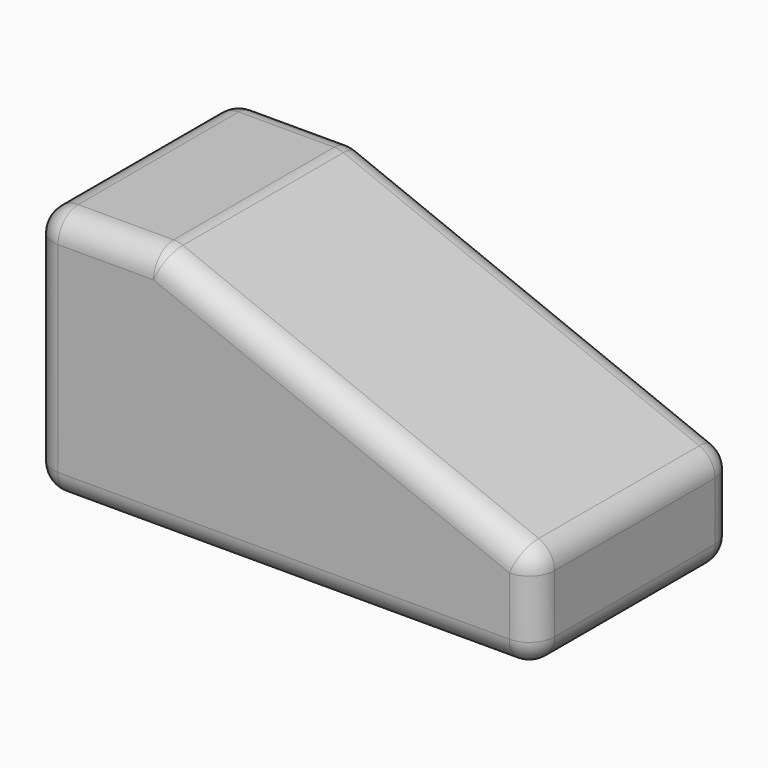
from build123d import *

# Parameters (mm, degrees)
F1_DEPTH = 50
F2_R     = 5


with BuildPart() as f1:
    # F0 (on Front) → F1 (new body)
    with BuildSketch(Plane.XZ):
        Polygon((0, 50), (0, 0), (100, 0), (100, 20), (25, 50), align=None)
    extrude(amount=F1_DEPTH)

    # F2
    f2_edges = [f1.edges().sort_by_distance(p)[0] for p in [
        (100, -25, 20),
        (25, -25, 50),
        (62.5, 0, 35),
        (62.5, -50, 35),
        (0, -25, 50),
        (12.5, 0, 50),
        (12.5, -50, 50),
        (100, -25, 0),
        (100, 0, 10),
        (100, -50, 10),
        (0, 0, 25),
        (50, 0, 0),
        (0, -50, 25),
        (50, -50, 0),
        (0, -25, 0),
    ]]
    fillet(f2_edges, radius=F2_R)


solid = f1.part
